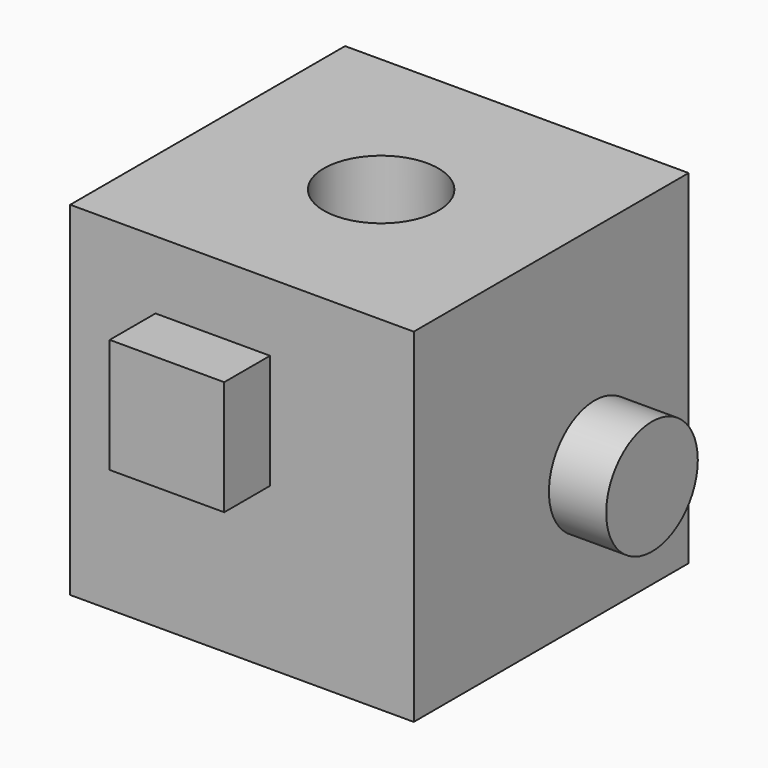
from build123d import *

# Parameters (mm, degrees)
F0_W     = 76.2
F0_H     = 76.2
F1_DEPTH = 76.2
F3_D     = 25.4
F4_W     = 25.4
F4_H     = 25.4
F5_DEPTH = 12.7
F6_R     = 12.7
F7_DEPTH = 12.7
F9_DEPTH = 25.4


with BuildPart() as f1:
    # F0 (on Front) → F1 (new body)
    with BuildSketch(Plane.XZ):
        with Locations((38.1, 114.3)):
            Rectangle(F0_W, F0_H)
    extrude(amount=F1_DEPTH)

    # F3 (through all)
    with Locations(Plane.XY.offset(152.4)):
        with Locations((38.483977, -38.1)):
            Hole(F3_D / 2)

    # F4 (on face) → F5 (join)
    with BuildSketch(Plane.XZ.offset(76.2)):
        with Locations((31.623321, 124.629789)):
            Rectangle(F4_W, F4_H)
    extrude(amount=F5_DEPTH)

    # F6 (on face) → F7 (join)
    with BuildSketch(Plane.YZ.offset(76.2)):
        with Locations((-26.029168, 105.892979)):
            Circle(F6_R)
    extrude(amount=F7_DEPTH)

    # F8 (on face) → F9 (join)
    with BuildSketch(Plane(origin=(0, 0, 0), x_dir=(-1, 0, 0), z_dir=(0, 1, 0))):
        Polygon((-28.910244, 106.993121), (-28.910244, 118.067446), (-38.50089, 123.604608), (-48.091536, 118.067446), (-48.091536, 106.993121), (-38.50089, 101.455959), align=None)
    extrude(amount=F9_DEPTH)


solid = f1.part
